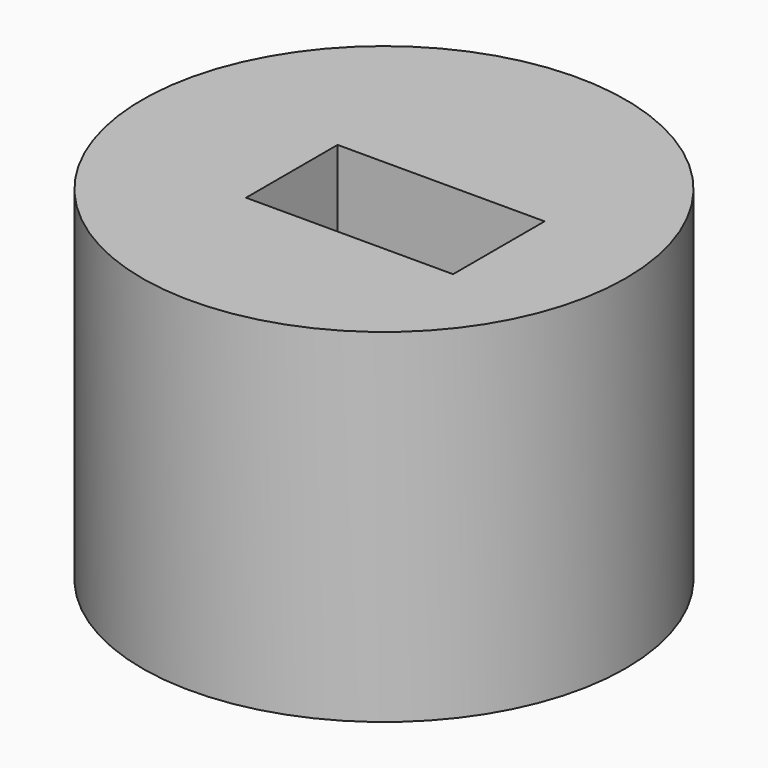
from build123d import *

# Parameters (mm, degrees)
F0_R     = 37.554157
F1_DEPTH = 53.34
F2_W     = 32.16216
F2_H     = 17.78
F3_DEPTH = 25.4


with BuildPart() as f1:
    # F0 (on Top) → F1 (new body)
    with BuildSketch(Plane.XY):
        Circle(F0_R)
    extrude(amount=F1_DEPTH)

    # F2 (on face) → F3 (cut)
    with BuildSketch(Plane.XY.offset(53.34)):
        with Locations((4.438984, -3.342995)):
            Rectangle(F2_W, F2_H)
    extrude(amount=-F3_DEPTH, mode=Mode.SUBTRACT)


solid = f1.part
